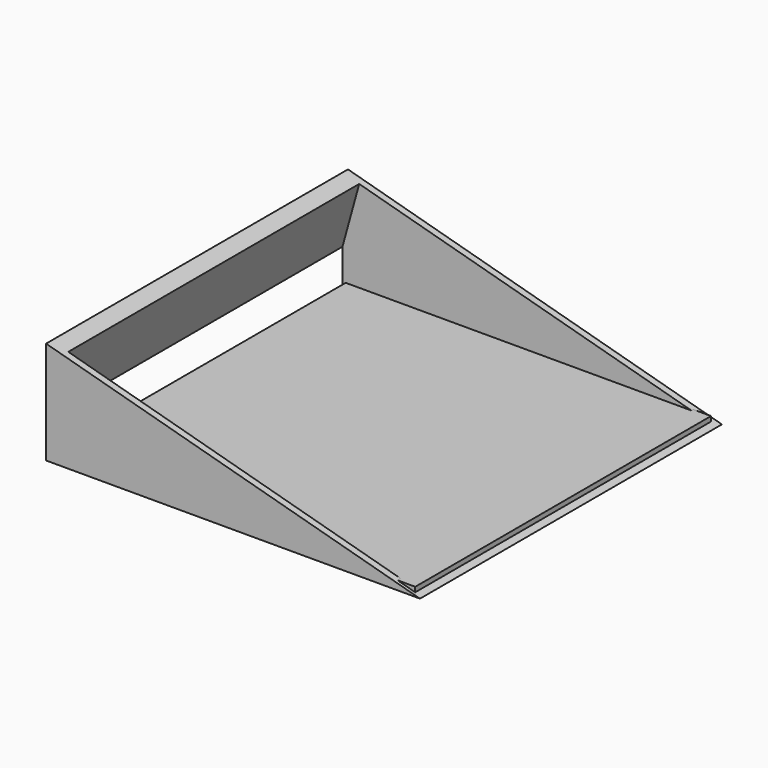
from build123d import *

# Parameters (mm, degrees)
F0_W     = 138.43
F0_H     = 139.7
F1_DEPTH = 38.1
F3_DEPTH = 139.701
F4_W     = 133.35
F4_H     = 134.62
F5_DEPTH = 36.7350705877
F6_W     = 134.5792934299
F6_H     = 136.8863768876
F7_DEPTH = 2.54


with BuildPart() as f1:
    # F0 (on Top) → F1 (new body)
    with BuildSketch(Plane.XY):
        with Locations((-10.2020979563, 16.2360354245)):
            Rectangle(F0_W, F0_H)
    extrude(amount=F1_DEPTH)

    # F2 (on face) → F3 (cut, through all)
    with BuildSketch(Plane.XZ.offset(53.6139645755)):
        Polygon((59.0129020437, 38.1), (-79.4170979563, 38.1), (59.0129020437, 0), align=None)
    extrude(amount=-F3_DEPTH, mode=Mode.SUBTRACT)

    # F4 (on face) → F5 (cut, through all)
    with BuildSketch(Plane(origin=(4.1555130146, 0, 15.098363953), x_dir=(0.9641488343, 0, -0.2653620645), z_dir=(0.2653620645, 0, 0.9641488343))):
        with Locations((-13.5877792845, 16.2360354245)):
            Rectangle(F4_W, F4_H)
    extrude(amount=-F5_DEPTH, mode=Mode.SUBTRACT)

    # F6 (on Top) → F7 (join)
    with BuildSketch(Plane.XY):
        with Locations((-10.9574608505, 15.957294032)):
            Rectangle(F6_W, F6_H)
    extrude(amount=F7_DEPTH)


solid = f1.part
